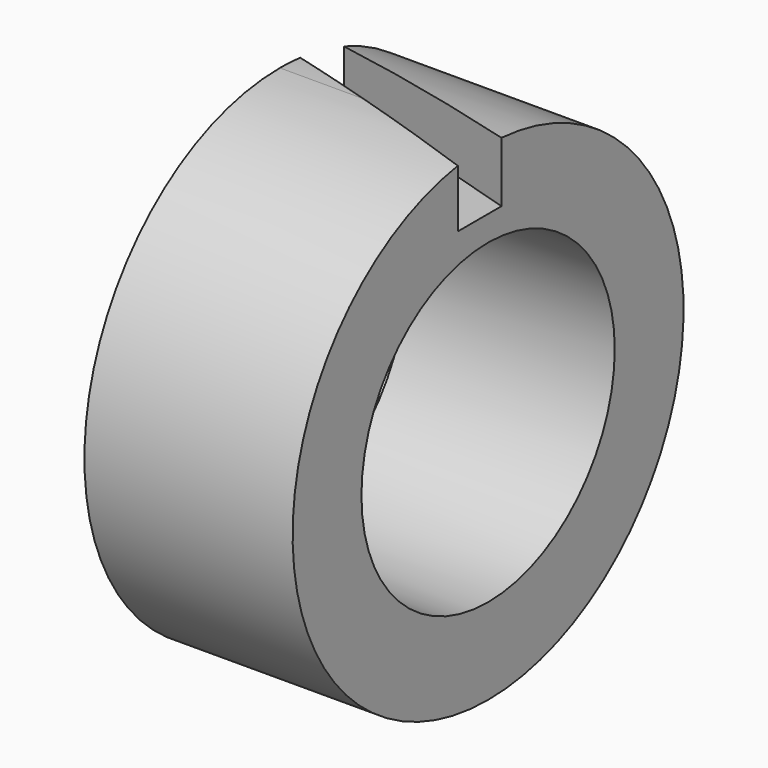
from build123d import *

# Parameters (mm, degrees)
F0_W     = 67.935511
F0_H     = 28.069519
F4_DEPTH = 20.973967


with BuildPart() as f1:
    # F0 (on Front) → F1 (revolve)
    with BuildSketch(Plane.XZ):
        with Locations((1.417562, 38.79952)):
            Rectangle(F0_W, F0_H)
    revolve(axis=Axis((8.571956, 0, -26.890948), (1, 0, 0)))

    # F3 (on offset) → F4 (cut)
    with BuildSketch(Plane.XY.offset(53.962)):
        Polygon((53.347535, 0), (-46.056576, 30.157462), (-45.957059, 12.388781), (53.227343, -17.801717), align=None)
    extrude(amount=-F4_DEPTH, mode=Mode.SUBTRACT)


solid = f1.part
